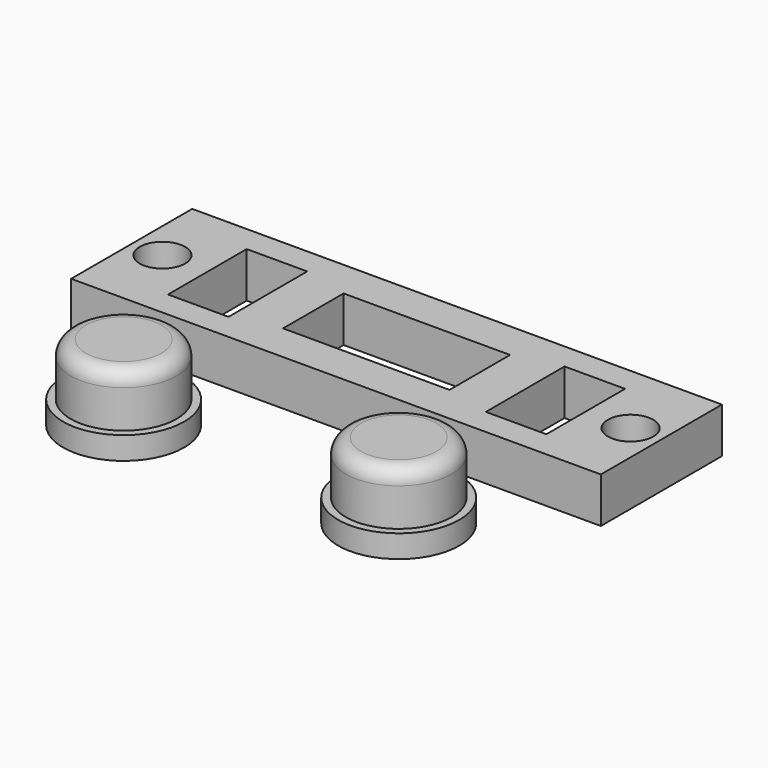
from build123d import *

# Parameters (mm, degrees)
F0_W     = 35
F0_H     = 10
F0_R     = 1.5
F0_W_2   = 4
F0_H_2   = 6.5
F0_W_3   = 11
F0_H_3   = 5
F1_DEPTH = 3
F2_R     = 3.5
F3_DEPTH = 5
F4_R     = 1
F5_R     = 4
F6_DEPTH = 1.5
F7_W     = 3.5
F7_H     = 6.3
F8_DEPTH = 0.5


with BuildPart() as f1:
    # F0 (on Top) → F1 (new body)
    with BuildSketch(Plane.XY):
        with Locations((-10.993253, 5.330869)):
            Rectangle(F0_W, F0_H)
        with Locations((-26.45945, 5.330869)):
            Circle(F0_R, mode=Mode.SUBTRACT)
        with Locations((-21.493253, 5.330869)):
            Rectangle(F0_W_2, F0_H_2, mode=Mode.SUBTRACT)
        with Locations((-10.993253, 5.330869)):
            Rectangle(F0_W_3, F0_H_3, mode=Mode.SUBTRACT)
        with Locations((-0.493253, 5.330869)):
            Rectangle(F0_W_2, F0_H_2, mode=Mode.SUBTRACT)
        with Locations((4.472945, 5.330869)):
            Circle(F0_R, mode=Mode.SUBTRACT)
    extrude(amount=F1_DEPTH)


with BuildPart() as f3:
    # F2 (on Top) → F3 (new body)
    with BuildSketch(Plane.XY):
        with Locations((-11.561643, -8.849543)):
            Circle(F2_R)
    extrude(amount=F3_DEPTH)

    # F4
    f4_edges = [f3.edges().sort_by_distance(p)[0] for p in [
        (-15.061643, -8.849543, 5),
    ]]
    fillet(f4_edges, radius=F4_R)

    # F5 (on face) → F6 (join)
    with BuildSketch(Plane(origin=(0, 0, 0), x_dir=(1, 0, 0), z_dir=(0, 0, -1))):
        with Locations((-11.561643, 8.849543)):
            Circle(F5_R)
    extrude(amount=-F6_DEPTH)

    # F7 (on face) → F8 (cut)
    with BuildSketch(Plane(origin=(0, 0, 0), x_dir=(1, 0, 0), z_dir=(0, 0, -1))):
        with Locations((-11.561643, 8.849543)):
            Rectangle(F7_W, F7_H)
    extrude(amount=-F8_DEPTH, mode=Mode.SUBTRACT)


with BuildPart() as f9_1:
    # F9: copy of F3
    add(f3.part.moved(Location((9.74, 2.9, 0))))


with BuildPart() as f3_1:
    # F10: moved
    add(f3.part.moved(Location((-8.2, 2.6, 0))))


solid = Compound([f1.part, f9_1.part, f3_1.part])
